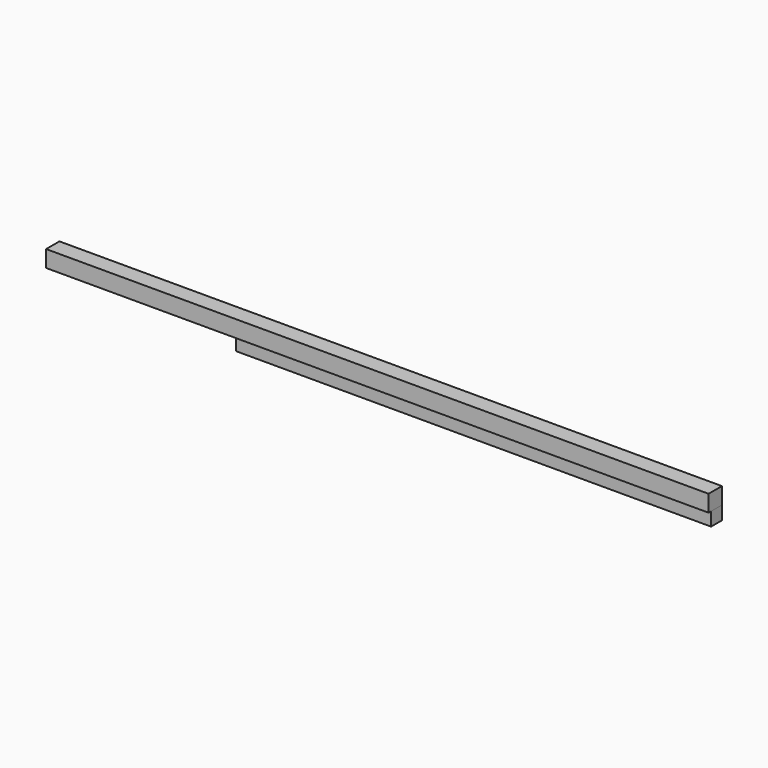
from build123d import *

# Parameters (mm, degrees)
F0_W          = 82.55
F0_H          = 82.55
F1_DEPTH      = 2895.6
F2_DEPTH      = 1143
F2_DEPTH_BACK = 2895.6


with BuildPart() as f1:
    # F0 (on Right) → F1 (new body)
    with BuildSketch(Plane.YZ):
        Rectangle(F0_W, F0_H)
    extrude(amount=F1_DEPTH)


with BuildPart() as f2:
    # F0 (on Right) → F2 (new body, two sides)
    with BuildSketch(Plane.YZ) as f2_sk:
        Polygon((-41.275, 41.275), (41.275, 41.275), (41.275, 142.875), (-60.325, 142.875), (-60.325, 41.275), align=None)
    extrude(amount=-F2_DEPTH)
    extrude(f2_sk.sketch, amount=F2_DEPTH_BACK)


solid = Compound([f1.part, f2.part])
